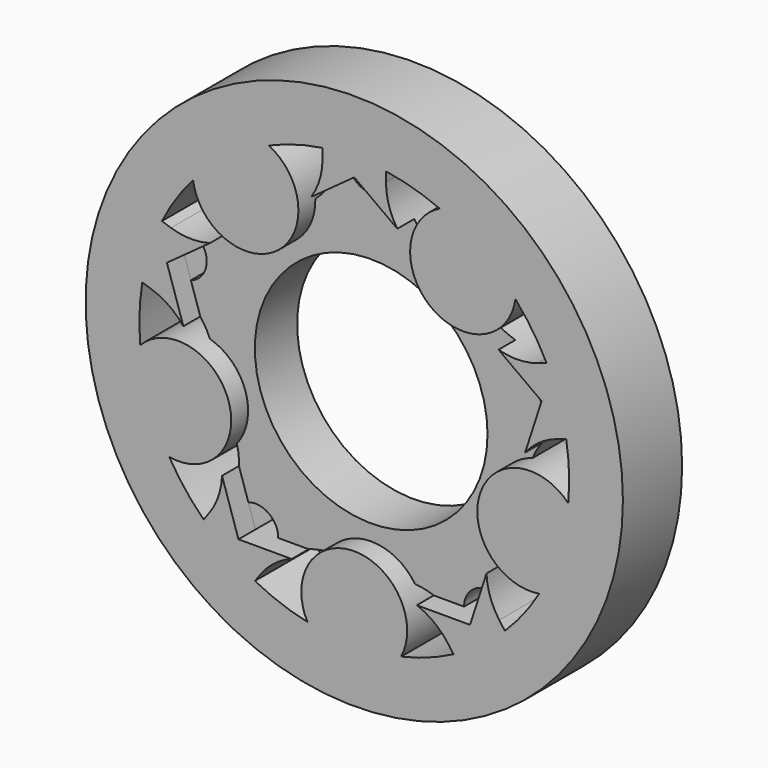
from build123d import *

# Parameters (mm, degrees)
F0_R     = 25.4
F0_R_2   = 11
F1_DEPTH = 3.5
F2_R     = 11
F3_DEPTH = 2
F5_DEPTH = 25.4
F6_R     = 5.0054287193
F7_DEPTH = 7


with BuildPart() as f1:
    # F0 (on Front) → F1 (new body, symmetric)
    with BuildSketch(Plane.XZ):
        Circle(F0_R)
        with BuildLine():
            ThreePointArc((9.3858592072, -18.022431771), (0, -20.32), (-9.3858592072, -18.022431771))
            Line((-9.3858592072, -18.022431771), (-8.8547516049, -17.2914248694))
            ThreePointArc((-8.8547516049, -17.2914248694), (-6.0948306116, -15.1356722669), (-2.6118222651, -14.7708626849))
            ThreePointArc((-2.6118222651, -14.7708626849), (0, -15), (2.6118222651, -14.7708626849))
            ThreePointArc((2.6118222651, -14.7708626849), (6.0948306116, -15.1356722669), (8.8547516049, -17.2914248694))
            Line((8.8547516049, -17.2914248694), (9.3858592072, -18.022431771))
        make_face(mode=Mode.SUBTRACT)
        with BuildLine():
            ThreePointArc((-14.2399611735, -14.4957202573), (-19.3254684111, -6.2792253257), (-20.0407411772, 3.3572448629))
            Line((-20.0407411772, 3.3572448629), (-19.181391025, 3.0780250724))
            ThreePointArc((-19.181391025, 3.0780250724), (-16.2782859748, 1.1193484171), (-14.855022674, -2.0804570066))
            ThreePointArc((-14.855022674, -2.0804570066), (-14.2658477444, -4.6352549156), (-13.2408277416, -7.0484381758))
            ThreePointArc((-13.2408277416, -7.0484381758), (-12.5114735012, -10.4737083206), (-13.7088535712, -13.7647133557))
            Line((-13.7088535712, -13.7647133557), (-14.2399611735, -14.4957202573))
        make_face(mode=Mode.SUBTRACT)
        Circle(F0_R_2, mode=Mode.SUBTRACT)
        with BuildLine():
            ThreePointArc((20.0407411772, 3.3572448629), (19.3254684111, -6.2792253257), (14.2399611735, -14.4957202573))
            Line((14.2399611735, -14.4957202573), (13.7088535712, -13.7647133557))
            ThreePointArc((13.7088535712, -13.7647133557), (12.5114735012, -10.4737083206), (13.2408277416, -7.0484381758))
            ThreePointArc((13.2408277416, -7.0484381758), (14.2658477444, -4.6352549156), (14.855022674, -2.0804570066))
            ThreePointArc((14.855022674, -2.0804570066), (16.2782859748, 1.1193484171), (19.181391025, 3.0780250724))
            Line((19.181391025, 3.0780250724), (20.0407411772, 3.3572448629))
        make_face(mode=Mode.SUBTRACT)
        with BuildLine():
            ThreePointArc((-18.1866392109, 9.0635839606), (-11.9437963266, 16.4392253257), (-3, 20.0973232048))
            Line((-3, 20.0973232048), (-3, 19.1937489824))
            ThreePointArc((-3, 19.1937489824), (-3.9657033994, 15.8274676339), (-6.5690866511, 13.4850695427))
            ThreePointArc((-6.5690866511, 13.4850695427), (-8.8167787844, 12.1352549156), (-10.7951038486, 10.4146883246))
            ThreePointArc((-10.7951038486, 10.4146883246), (-13.8273464846, 8.6625645365), (-17.3272890587, 8.7843641702))
            Line((-17.3272890587, 8.7843641702), (-18.1866392109, 9.0635839606))
        make_face(mode=Mode.SUBTRACT)
        with BuildLine():
            Line((3, 19.1937489824), (3, 20.0973232048))
            ThreePointArc((3, 20.0973232048), (11.9437963266, 16.4392253257), (18.1866392109, 9.0635839606))
            Line((18.1866392109, 9.0635839606), (17.3272890587, 8.7843641702))
            ThreePointArc((17.3272890587, 8.7843641702), (13.8273464846, 8.6625645365), (10.7951038486, 10.4146883246))
            ThreePointArc((10.7951038486, 10.4146883246), (8.8167787844, 12.1352549156), (6.5690866511, 13.4850695427))
            ThreePointArc((6.5690866511, 13.4850695427), (3.9657033994, 15.8274676339), (3, 19.1937489824))
        make_face(mode=Mode.SUBTRACT)
    extrude(amount=F1_DEPTH, both=True)

    # F2 (on face) → F3 (cut)
    with BuildSketch(Plane.XZ.offset(3.5)):
        with BuildLine():
            Line((5.9151542337, -15.0662788144), (10.9462922974, -15.0662788144))
            Line((10.9462922974, -15.0662788144), (12.5009994602, -10.2813821745))
            ThreePointArc((12.5009994602, -10.2813821745), (12.6561218663, -8.6157571432), (13.2408277416, -7.0484381758))
            ThreePointArc((13.2408277416, -7.0484381758), (14.2658477444, -4.6352549156), (14.855022674, -2.0804570066))
            ThreePointArc((14.855022674, -2.0804570066), (15.3032326588, -0.468787836), (16.1567658253, 0.9699097832))
            Line((16.1567658253, 0.9699097832), (17.711472988, 5.7548064231))
            Line((17.711472988, 5.7548064231), (13.6411967935, 8.7120351792))
            ThreePointArc((13.6411967935, 8.7120351792), (12.1050287134, 9.3742717954), (10.7951038486, 10.4146883246))
            ThreePointArc((10.7951038486, 10.4146883246), (8.8167787844, 12.1352549156), (6.5690866511, 13.4850695427))
            ThreePointArc((6.5690866511, 13.4850695427), (5.1748026867, 14.4093757325), (4.0702761946, 15.6657160264))
            Line((4.0702761946, 15.6657160264), (0, 18.6229447825))
            Line((0, 18.6229447825), (-4.0702761946, 15.6657160264))
            ThreePointArc((-4.0702761946, 15.6657160264), (-5.1748026867, 14.4093757325), (-6.5690866511, 13.4850695427))
            ThreePointArc((-6.5690866511, 13.4850695427), (-8.8167787844, 12.1352549156), (-10.7951038486, 10.4146883246))
            ThreePointArc((-10.7951038486, 10.4146883246), (-12.1050287134, 9.3742717954), (-13.6411967935, 8.7120351792))
            Line((-13.6411967935, 8.7120351792), (-17.711472988, 5.7548064231))
            Line((-17.711472988, 5.7548064231), (-16.1567658253, 0.9699097832))
            ThreePointArc((-16.1567658253, 0.9699097832), (-15.3032326588, -0.468787836), (-14.855022674, -2.0804570066))
            ThreePointArc((-14.855022674, -2.0804570066), (-14.2658477444, -4.6352549156), (-13.2408277416, -7.0484381758))
            ThreePointArc((-13.2408277416, -7.0484381758), (-12.6561218663, -8.6157571432), (-12.5009994602, -10.2813821745))
            Line((-12.5009994602, -10.2813821745), (-10.9462922974, -15.0662788144))
            Line((-10.9462922974, -15.0662788144), (-5.9151542337, -15.0662788144))
            ThreePointArc((-5.9151542337, -15.0662788144), (-4.2831152343, -14.6991025487), (-2.6118222651, -14.7708626849))
            ThreePointArc((-2.6118222651, -14.7708626849), (0, -15), (2.6118222651, -14.7708626849))
            ThreePointArc((2.6118222651, -14.7708626849), (4.2831152343, -14.6991025487), (5.9151542337, -15.0662788144))
        make_face()
        Circle(F2_R, mode=Mode.SUBTRACT)
    extrude(amount=-F3_DEPTH, mode=Mode.SUBTRACT)

    # F4 (on face) → F5 (cut)
    with BuildSketch(Plane.XZ.offset(1.5)):
        with BuildLine():
            ThreePointArc((-15.5496324927, 5.7548064231), (-15.6554404977, 6.4228518753), (-15.9625072881, 7.0255043841))
            Line((-15.9625072881, 7.0255043841), (-17.711472988, 5.7548064231))
            Line((-17.711472988, 5.7548064231), (-17.0434275358, 3.6987739328))
            ThreePointArc((-17.0434275358, 3.6987739328), (-15.9625072881, 4.4841084621), (-15.5496324927, 5.7548064231))
        make_face()
        with BuildLine():
            ThreePointArc((-8.7844518021, -15.0662788144), (-9.6755943364, -13.3173131145), (-11.6143377496, -13.0102463241))
            Line((-11.6143377496, -13.0102463241), (-10.9462922974, -15.0662788144))
            Line((-10.9462922974, -15.0662788144), (-8.7844518021, -15.0662788144))
        make_face()
        with BuildLine():
            Line((10.9462922974, -15.0662788144), (11.6143377496, -13.0102463241))
            ThreePointArc((11.6143377496, -13.0102463241), (9.6755943364, -13.3173131145), (8.7844518021, -15.0662788144))
            Line((8.7844518021, -15.0662788144), (10.9462922974, -15.0662788144))
        make_face()
        with BuildLine():
            Line((17.711472988, 5.7548064231), (15.9625072881, 7.0255043841))
            ThreePointArc((15.9625072881, 7.0255043841), (15.6554404977, 5.0867609709), (17.0434275358, 3.6987739328))
            Line((17.0434275358, 3.6987739328), (17.711472988, 5.7548064231))
        make_face()
        with BuildLine():
            Line((0, 18.6229447825), (-1.7489656999, 17.3522468215))
            ThreePointArc((-1.7489656999, 17.3522468215), (0, 16.4611042872), (1.7489656999, 17.3522468215))
            Line((1.7489656999, 17.3522468215), (0, 18.6229447825))
        make_face()
    extrude(amount=-F5_DEPTH, mode=Mode.SUBTRACT)

    # F6 (on face) → F7 (join)
    with BuildSketch(Plane.XZ.offset(3.5)):
        with Locations((-10.2844180941, 14.1552871273)):
            Circle(F6_R)
        with Locations((-16.6405380308, -5.4068385621)):
            Circle(F6_R)
        with Locations((0, -17.4968971303)):
            Circle(F6_R)
        with Locations((16.6405380308, -5.4068385621)):
            Circle(F6_R)
        with Locations((10.2844180941, 14.1552871273)):
            Circle(F6_R)
    extrude(amount=-F7_DEPTH)


solid = f1.part
